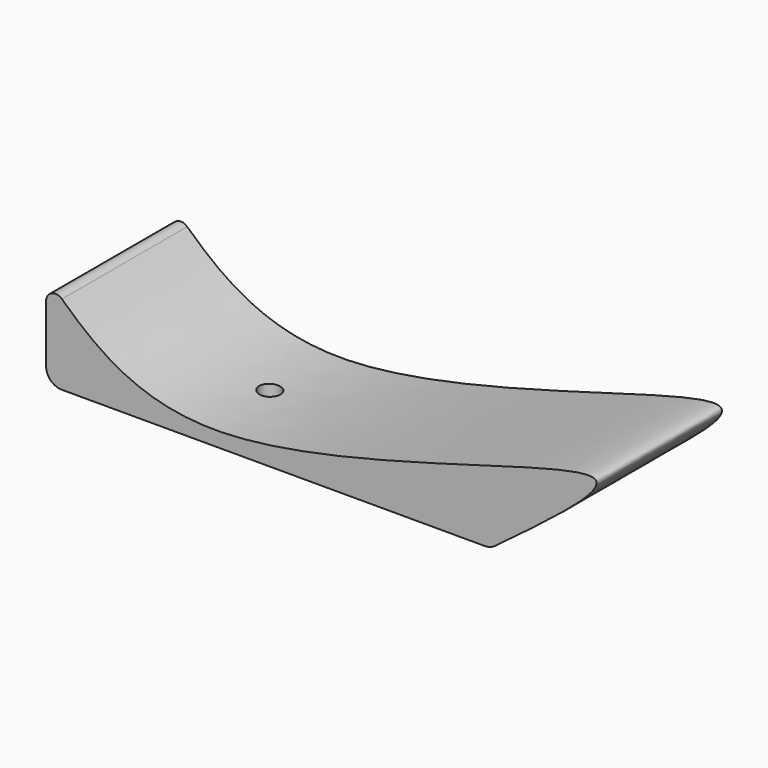
from build123d import *

# Parameters (mm, degrees)
F0_W     = 180
F0_H     = 30
F1_DEPTH = 50
F3_DEPTH = 50
F5_R     = 3.383292764
F6_DEPTH = 25


with BuildPart() as f1:
    # F0 (on Front) → F1 (new body)
    with BuildSketch(Plane.XZ):
        with Locations((90, 15)):
            Rectangle(F0_W, F0_H)
    extrude(amount=F1_DEPTH)


with BuildPart() as f3:
    # F2 (on Front) → F3 (new body, through all)
    with BuildSketch(Plane.XZ):
        with BuildLine():
            ThreePointArc((1.9161681412, 5), (3.3806342352, 1.4644660941), (6.9161681412, 0))
            Line((6.9161681412, 0), (142.0731289296, 0))
            ThreePointArc((142.0731289296, 0), (143.6453106538, 0.2536071985), (145.0580057369, 0.9887021495))
            add(Edge.make_bspline(
                [(6.9612407783, 25.4980860864), (19.1897035579, 14.1044662842), (54.6478549175, -12.055462272), (211.476752324, 50.7476026056), (163.4766085339, 14.6943062607), (145.0580057369, 0.9887021495)],
                knots=[0.0375443609, 0.0375443609, 0.0375443609, 0.0375443609, 0.3075680716, 0.7379988926, 0.9938496703, 0.9938496703, 0.9938496703, 0.9938496703], degree=3))
            ThreePointArc((6.9612407783, 25.4980860864), (3.7193427386, 26.0540938961), (1.9161681412, 23.3031651519))
            Line((1.9161681412, 23.3031651519), (1.9161681412, 5))
        make_face()
    extrude(amount=F3_DEPTH)

    # F5 (on face) → F6 (cut)
    with BuildSketch(Plane(origin=(0, 0, 0), x_dir=(1, 0, 0), z_dir=(0, 0, -1))):
        with Locations((53.2598085701, 24.9059256166)):
            Circle(F5_R)
    extrude(amount=-F6_DEPTH, mode=Mode.SUBTRACT)


solid = f3.part
